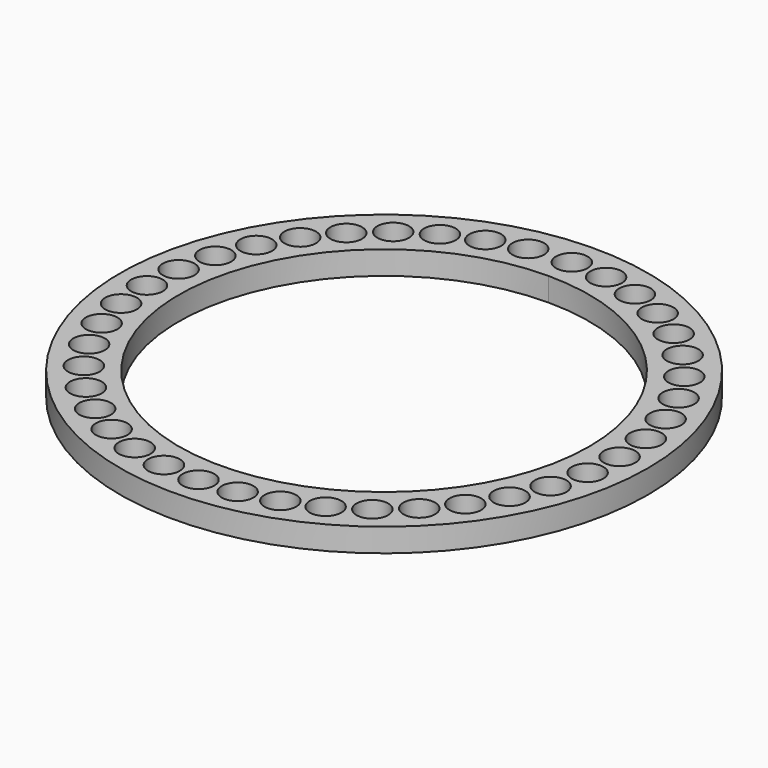
from build123d import *

# Parameters (mm, degrees)
F0_R     = 45
F0_R_2   = 2.7
F1_DEPTH = 2


with BuildPart() as f1:
    # F0 (on Top) → F1 (new body, symmetric)
    with BuildSketch(Plane.XY):
        Circle(F0_R)
        with Locations((-23.162491, -32.611332)):
            Circle(F0_R_2, mode=Mode.SUBTRACT)
        with Locations((-27.966063, -28.598939)):
            Circle(F0_R_2, mode=Mode.SUBTRACT)
        with Locations((-32.084928, -23.886344)):
            Circle(F0_R_2, mode=Mode.SUBTRACT)
        with Locations((-17.79182, -35.825286)):
            Circle(F0_R_2, mode=Mode.SUBTRACT)
        with Locations((-11.985544, -38.162111)):
            Circle(F0_R_2, mode=Mode.SUBTRACT)
        with Locations((-5.885819, -39.564594)):
            Circle(F0_R_2, mode=Mode.SUBTRACT)
        with Locations((-35.418241, -18.588927)):
            Circle(F0_R_2, mode=Mode.SUBTRACT)
        with Locations((-37.884392, -12.836388)):
            Circle(F0_R_2, mode=Mode.SUBTRACT)
        with Locations((-39.423, -6.76957)):
            Circle(F0_R_2, mode=Mode.SUBTRACT)
        with Locations((-39.996395, -0.537008)):
            Circle(F0_R_2, mode=Mode.SUBTRACT)
        with Locations((0.358011, -39.998398)):
            Circle(F0_R_2, mode=Mode.SUBTRACT)
        with Locations((6.593076, -39.4529)):
            Circle(F0_R_2, mode=Mode.SUBTRACT)
        with Locations((12.66672, -37.941458)):
            Circle(F0_R_2, mode=Mode.SUBTRACT)
        with Locations((18.430237, -35.501075)):
            Circle(F0_R_2, mode=Mode.SUBTRACT)
        with Locations((23.742518, -32.191502)):
            Circle(F0_R_2, mode=Mode.SUBTRACT)
        with Locations((28.473499, -28.093769)):
            Circle(F0_R_2, mode=Mode.SUBTRACT)
        with Locations((32.507349, -23.308201)):
            Circle(F0_R_2, mode=Mode.SUBTRACT)
        with Locations((35.745306, -17.951967)):
            Circle(F0_R_2, mode=Mode.SUBTRACT)
        with Locations((38.108092, -12.156206)):
            Circle(F0_R_2, mode=Mode.SUBTRACT)
        with Locations((39.537858, -6.062819)):
            Circle(F0_R_2, mode=Mode.SUBTRACT)
        with Locations((-39.590538, 5.708701)):
            Circle(F0_R_2, mode=Mode.SUBTRACT)
        with Locations((-38.215367, 11.814641)):
            Circle(F0_R_2, mode=Mode.SUBTRACT)
        with Locations((-35.904549, 17.631317)):
            Circle(F0_R_2, mode=Mode.SUBTRACT)
        with Locations((-32.714662, 23.016317)):
            Circle(F0_R_2, mode=Mode.SUBTRACT)
        with Locations((-28.723806, 27.837797)):
            Circle(F0_R_2, mode=Mode.SUBTRACT)
        with Locations((-24.029691, 31.977711)):
            Circle(F0_R_2, mode=Mode.SUBTRACT)
        with Locations((-18.747244, 35.334697)):
            Circle(F0_R_2, mode=Mode.SUBTRACT)
        with Locations((-13.005799, 37.826567)):
            Circle(F0_R_2, mode=Mode.SUBTRACT)
        with Locations((-6.945927, 39.39231)):
            Circle(F0_R_2, mode=Mode.SUBTRACT)
        with BuildLine():
            ThreePointArc((0, 35), (24.748737, 24.748737), (35, 0))
            ThreePointArc((35, 0), (-24.748737, -24.748737), (0, 35))
        make_face(mode=Mode.SUBTRACT)
        with Locations((39.999599, 0.179008)):
            Circle(F0_R_2, mode=Mode.SUBTRACT)
        with Locations((39.482011, 6.416451)):
            Circle(F0_R_2, mode=Mode.SUBTRACT)
        with Locations((37.997764, 12.496798)):
            Circle(F0_R_2, mode=Mode.SUBTRACT)
        with Locations((35.583199, 18.271179)):
            Circle(F0_R_2, mode=Mode.SUBTRACT)
        with BuildLine():
            ThreePointArc((2.7, 40), (1.909188, 38.090812), (0, 37.3))
            ThreePointArc((0, 37.3), (-1.909188, 41.909188), (2.7, 40))
        make_face(mode=Mode.SUBTRACT)
        with Locations((6.239698, 39.51033)):
            Circle(F0_R_2, mode=Mode.SUBTRACT)
        with Locations((12.326625, 38.053309)):
            Circle(F0_R_2, mode=Mode.SUBTRACT)
        with Locations((18.111754, 35.664609)):
            Circle(F0_R_2, mode=Mode.SUBTRACT)
        with Locations((32.297432, 23.598218)):
            Circle(F0_R_2, mode=Mode.SUBTRACT)
        with Locations((23.453444, 32.402715)):
            Circle(F0_R_2, mode=Mode.SUBTRACT)
        with Locations((28.220912, 28.347489)):
            Circle(F0_R_2, mode=Mode.SUBTRACT)
    extrude(amount=F1_DEPTH, both=True)


solid = f1.part
